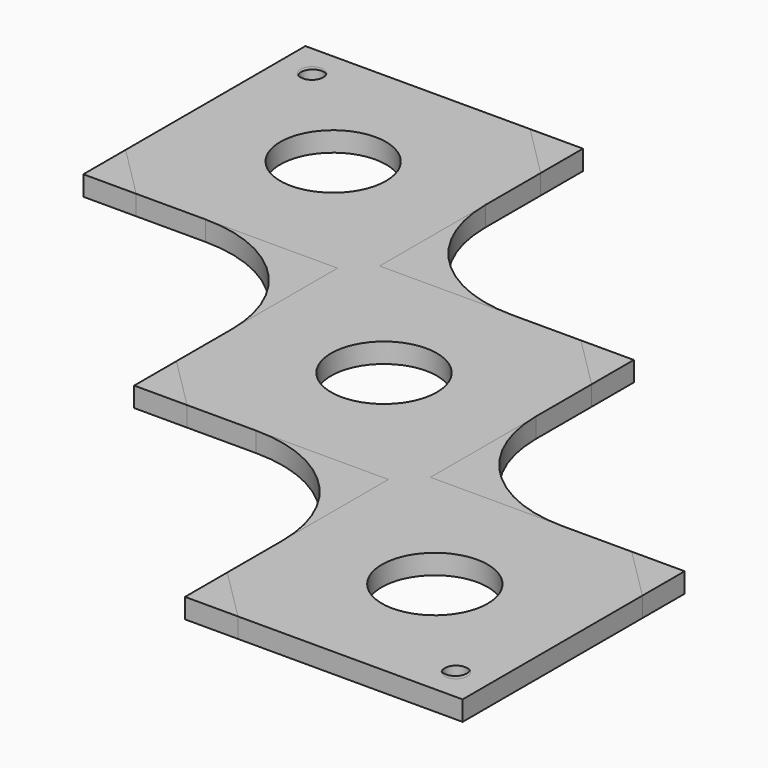
from build123d import *

# Parameters (mm, degrees)
PAD_DEPTH       = 3
SKETCH001_R     = 11.5
SKETCH001_R_2   = 1.75
POCKET_DEPTH    = 3.001
FILLET_R        = 20
PAD001_DEPTH    = 3
SKETCH002_R     = 8
SKETCH002_R_2   = 1.7
POCKET001_DEPTH = 3.001
CHAMFER_SIZE    = 8


with BuildPart() as body:
    # Sketch → Pad (new body)
    with BuildSketch(Plane.XY.offset(3)):
        Polygon((-59.464466, 59.464466), (-59.464466, 17.464466), (-21, 17.464466), (-21, -21), (17.464466, -21), (17.464466, -59.464466), (59.464466, -59.464466), (59.464466, -17.464466), (21, -17.464466), (21, 21), (-17.464466, 21), (-17.464466, 59.464466), align=None)
    extrude(amount=PAD_DEPTH)

    # Sketch001 (on Face14 of Pad) → Pocket (cut, through all)
    with BuildSketch(Plane.XY.offset(6)):
        with Locations((-38.464466, 38.464466)):
            Circle(SKETCH001_R)
        Circle(SKETCH001_R)
        with Locations((38.464466, -38.464466)):
            Circle(SKETCH001_R)
        with Locations((53.964466, -22.964466)):
            Circle(SKETCH001_R_2)
        with Locations((53.964466, -53.964466)):
            Circle(SKETCH001_R_2)
        with Locations((22.964466, -53.964466)):
            Circle(SKETCH001_R_2)
        with Locations((22.964466, -22.964466)):
            Circle(SKETCH001_R_2)
        with Locations((15.5, -15.5)):
            Circle(SKETCH001_R_2)
        with Locations((15.5, 15.5)):
            Circle(SKETCH001_R_2)
        with Locations((-15.5, 15.5)):
            Circle(SKETCH001_R_2)
        with Locations((-15.5, -15.5)):
            Circle(SKETCH001_R_2)
        with Locations((-22.964466, 22.964466)):
            Circle(SKETCH001_R_2)
        with Locations((-53.964466, 22.964466)):
            Circle(SKETCH001_R_2)
        with Locations((-53.964466, 53.964466)):
            Circle(SKETCH001_R_2)
        with Locations((-22.964466, 53.964466)):
            Circle(SKETCH001_R_2)
    extrude(amount=-POCKET_DEPTH, mode=Mode.SUBTRACT)

    # Fillet
    fillet_edges = [body.edges().sort_by_distance(p)[0] for p in [
        (-21, 17.464466, 4.5),
        (-17.464466, 21, 4.5),
        (21, -17.464466, 4.5),
        (17.464466, -21, 4.5),
    ]]
    fillet(fillet_edges, radius=FILLET_R)


with BuildPart() as holes:
    # Sketch003 → Pad001 (new body)
    with BuildSketch(Plane.XY.offset(3)):
        Polygon((-59.464466, 59.464466), (-59.464466, 17.464466), (-21, 17.464466), (-21, -21), (17.464466, -21), (17.464466, -59.464466), (59.464466, -59.464466), (59.464466, -17.464466), (21, -17.464466), (21, 21), (-17.464466, 21), (-17.464466, 59.464466), align=None)
    extrude(amount=PAD001_DEPTH)

    # Sketch002 (on Face14 of Pad001) → Pocket001 (cut, through all)
    with BuildSketch(Plane.XY.offset(6)):
        with Locations((-38.464466, 38.464466)):
            Circle(SKETCH002_R)
        Circle(SKETCH002_R)
        with Locations((38.464466, -38.464466)):
            Circle(SKETCH002_R)
        with Locations((-54.514719, 54.514719)):
            Circle(SKETCH002_R_2)
        with Locations((54.514719, -54.514719)):
            Circle(SKETCH002_R_2)
    extrude(amount=-POCKET001_DEPTH, mode=Mode.SUBTRACT)

    # Chamfer
    chamfer_edges = [holes.edges().sort_by_distance(p)[0] for p in [
        (-17.464466, 59.464466, 4.5),
        (21, 21, 4.5),
        (59.464466, -17.464466, 4.5),
        (-59.464466, 17.464466, 4.5),
        (-21, -21, 4.5),
        (17.464466, -59.464466, 4.5),
    ]]
    chamfer(chamfer_edges, length=CHAMFER_SIZE)


solid = Compound([body.part, holes.part])
